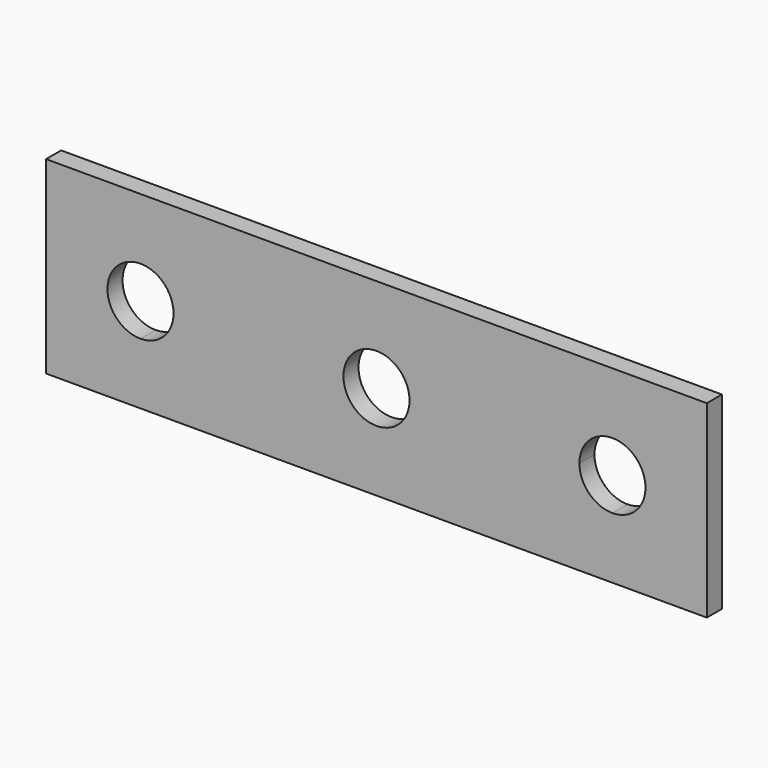
from build123d import *

# Parameters (mm, degrees)
F0_R     = 1.75
F1_DEPTH = 1
F2_DEPTH = 1


with BuildPart() as f1:
    # F0 (on Front) → F1 (new body)
    with BuildSketch(Plane.XZ):
        Polygon((17.5, 8.6541427299), (-17.5, 8.6541427299), (-17.5, -1.3458572701), (-12.5, -1.3458572701), (12.5, -1.3458572701), (17.5, -1.3458572701), align=None)
        with BuildLine():
            ThreePointArc((-10.75, 3.6541427299), (-11.2625631329, 2.4167058629), (-12.5, 1.9041427299))
            ThreePointArc((-12.5, 1.9041427299), (-13.7374368671, 4.891579597), (-10.75, 3.6541427299))
        make_face(mode=Mode.SUBTRACT)
        with Locations((0, 3.6541427299)):
            Circle(F0_R, mode=Mode.SUBTRACT)
        with BuildLine():
            ThreePointArc((14.25, 3.6541427299), (13.7374368671, 2.4167058629), (12.5, 1.9041427299))
            ThreePointArc((12.5, 1.9041427299), (11.2625631329, 2.4167058629), (10.75, 3.6541427299))
            ThreePointArc((10.75, 3.6541427299), (12.5, 5.4041427299), (14.25, 3.6541427299))
        make_face(mode=Mode.SUBTRACT)
        Polygon((17.5, 8.6541427299), (-17.5, 8.6541427299), (-17.5, -1.3458572701), (-12.5, -1.3458572701), (12.5, -1.3458572701), (17.5, -1.3458572701), align=None)
        with BuildLine():
            ThreePointArc((-10.75, 3.6541427299), (-11.2625631329, 2.4167058629), (-12.5, 1.9041427299))
            ThreePointArc((-12.5, 1.9041427299), (-13.7374368671, 4.891579597), (-10.75, 3.6541427299))
        make_face(mode=Mode.SUBTRACT)
        with Locations((0, 3.6541427299)):
            Circle(F0_R, mode=Mode.SUBTRACT)
        with BuildLine():
            ThreePointArc((14.25, 3.6541427299), (13.7374368671, 2.4167058629), (12.5, 1.9041427299))
            ThreePointArc((12.5, 1.9041427299), (11.2625631329, 2.4167058629), (10.75, 3.6541427299))
            ThreePointArc((10.75, 3.6541427299), (12.5, 5.4041427299), (14.25, 3.6541427299))
        make_face(mode=Mode.SUBTRACT)
    extrude(amount=F1_DEPTH)

    # F2 (add): a face of the model
    f2_faces = [f1.faces().sort_by_distance(p)[0] for p in [
        (17.1359945055, -1, 3.6541427299),
    ]]
    extrude(f2_faces, amount=-F2_DEPTH)


solid = f1.part
